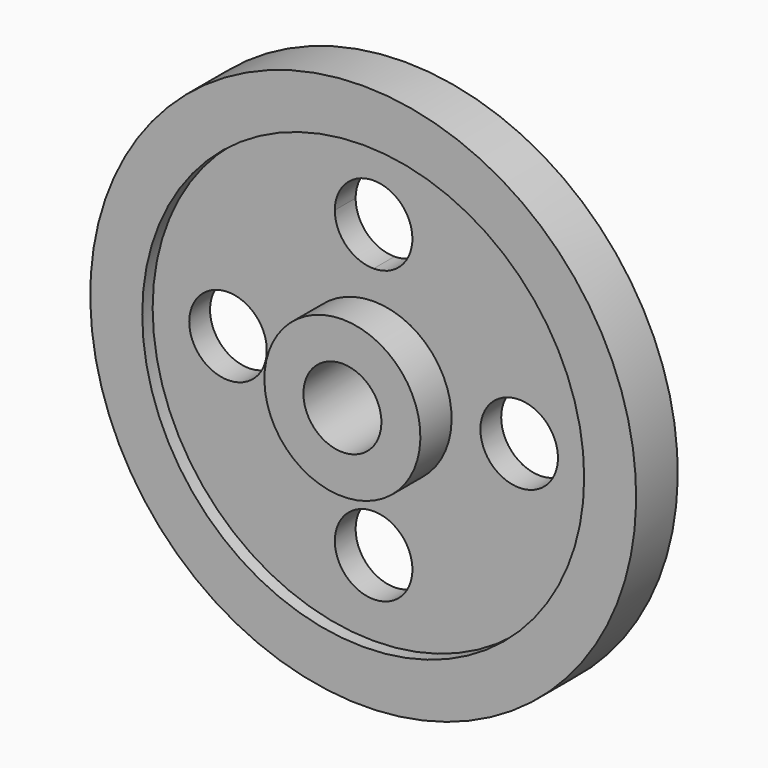
from build123d import *

# Parameters (mm, degrees)
F2_R     = 18.948287
F3_DEPTH = 25.4


with BuildPart() as f1:
    # F0 (on Right) → F1 (revolve)
    with BuildSketch(Plane.YZ):
        Polygon((0, 28.575), (0, 19.05), (25.4, 19.05), (25.4, 38.1), (6.35, 38.1), (6.35, 107.95), (12.7, 107.95), (12.7, 133.35), (-12.7, 133.35), (-12.7, 107.95), (-6.35, 107.95), (-6.35, 113.037334), (0, 113.037334), (0, 73.025), align=None)
        Polygon((-25.4, 19.05), (0, 19.05), (0, 28.575), (0, 73.025), (0, 113.037334), (-6.35, 113.037334), (-6.35, 107.95), (-6.35, 38.1), (-25.4, 38.1), align=None)
    revolve(axis=Axis((0, 21.6662, 0), (0, 1, 0)))

    # F2 (on face) → F3 (cut)
    with BuildSketch(Plane(origin=(0, 6.35, 0), x_dir=(-1, 0, 0), z_dir=(0, 1, 0))):
        with Locations((71.12, 0)):
            Circle(F2_R)
        with Locations((0, -71.12)):
            Circle(F2_R)
        with Locations((-71.12, 0)):
            Circle(F2_R)
        with BuildLine():
            ThreePointArc((18.948287, 71.12), (-13.398462, 84.518462), (0, 52.171713))
            ThreePointArc((0, 52.171713), (13.398462, 57.721538), (18.948287, 71.12))
        make_face()
    extrude(amount=-F3_DEPTH, mode=Mode.SUBTRACT)


solid = f1.part
